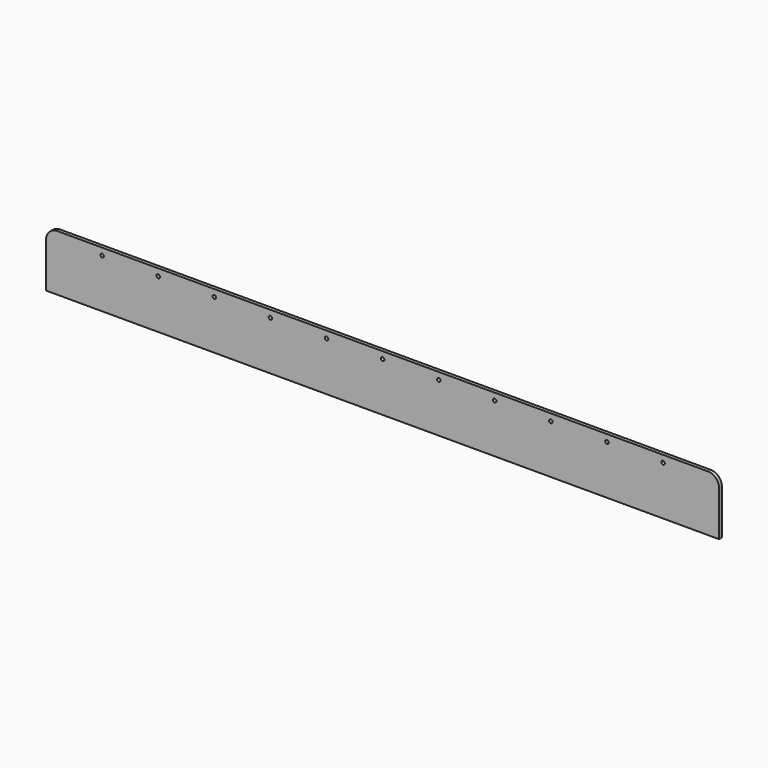
from build123d import *

# Parameters (mm, degrees)
F0_W     = 304.8
F0_H     = 25.4
F0_R     = 0.7874
F1_DEPTH = 1.5748
F2_R     = 5.08


with BuildPart() as f1:
    # F0 (on Front) → F1 (new body)
    with BuildSketch(Plane.XZ):
        with Locations((95.644924, 9.0429)):
            Rectangle(F0_W, F0_H)
        with Locations((-31.355076, 18.5679)):
            Circle(F0_R, mode=Mode.SUBTRACT)
        with Locations((-5.955076, 18.5679)):
            Circle(F0_R, mode=Mode.SUBTRACT)
        with Locations((19.444924, 18.5679)):
            Circle(F0_R, mode=Mode.SUBTRACT)
        with Locations((44.844924, 18.5679)):
            Circle(F0_R, mode=Mode.SUBTRACT)
        with Locations((70.244924, 18.5679)):
            Circle(F0_R, mode=Mode.SUBTRACT)
        with Locations((95.644924, 18.5679)):
            Circle(F0_R, mode=Mode.SUBTRACT)
        with Locations((121.044924, 18.5679)):
            Circle(F0_R, mode=Mode.SUBTRACT)
        with Locations((146.444924, 18.5679)):
            Circle(F0_R, mode=Mode.SUBTRACT)
        with Locations((171.844924, 18.5679)):
            Circle(F0_R, mode=Mode.SUBTRACT)
        with Locations((197.244924, 18.5679)):
            Circle(F0_R, mode=Mode.SUBTRACT)
        with Locations((222.644924, 18.5679)):
            Circle(F0_R, mode=Mode.SUBTRACT)
    extrude(amount=F1_DEPTH)

    # F2
    f2_edges = [f1.edges().sort_by_distance(p)[0] for p in [
        (248.044924, -0.7874, 21.7429),
        (-56.755076, -0.7874, 21.7429),
    ]]
    fillet(f2_edges, radius=F2_R)


solid = f1.part
